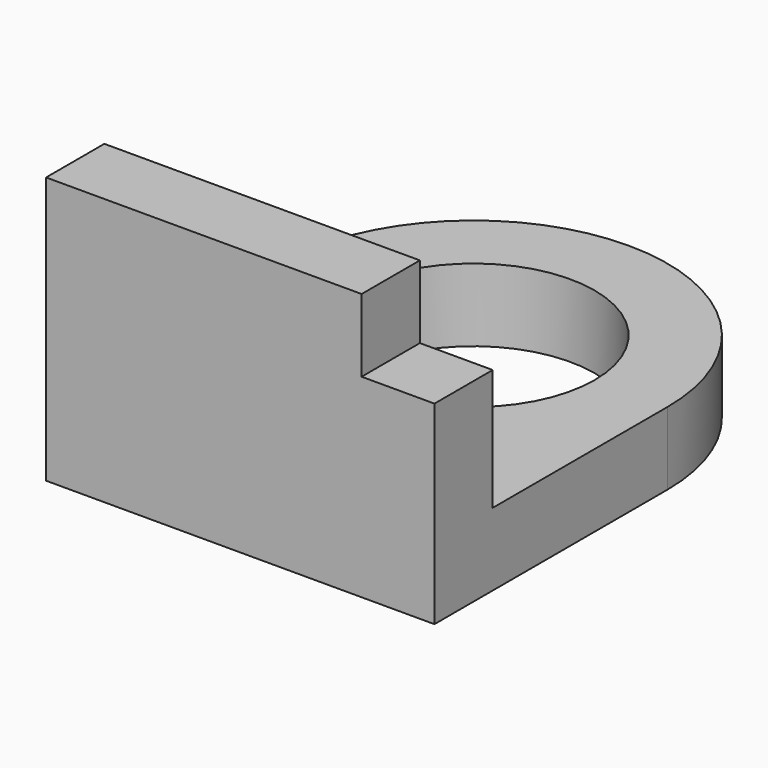
from build123d import *

# Parameters (mm, degrees)
F0_R     = 31.75
F1_DEPTH = 19.05
F2_W     = 101.6
F2_H     = 19.05
F3_DEPTH = 50.8
F4_W     = 19.05
F4_H     = 19.05
F5_DEPTH = 19.05


with BuildPart() as f1:
    # F0 (on Top) → F1 (new body)
    with BuildSketch(Plane.XY):
        with BuildLine():
            ThreePointArc((50.8, 12.7), (35.921024, 48.621024), (0, 63.5))
            ThreePointArc((0, 63.5), (-35.921024, 48.621024), (-50.8, 12.7))
            Line((-50.8, 12.7), (-50.8, -63.5))
            Line((-50.8, -63.5), (50.8, -63.5))
            Line((50.8, -63.5), (50.8, 12.7))
        make_face()
        with Locations((0, 12.7)):
            Circle(F0_R, mode=Mode.SUBTRACT)
    extrude(amount=F1_DEPTH)

    # F2 (on face) → F3 (join)
    with BuildSketch(Plane.XY.offset(19.05)):
        with Locations((0, -53.975)):
            Rectangle(F2_W, F2_H)
    extrude(amount=F3_DEPTH)

    # F4 (on face) → F5 (cut)
    with BuildSketch(Plane.XY.offset(69.85)):
        with Locations((41.275, -53.975)):
            Rectangle(F4_W, F4_H)
    extrude(amount=-F5_DEPTH, mode=Mode.SUBTRACT)


solid = f1.part
